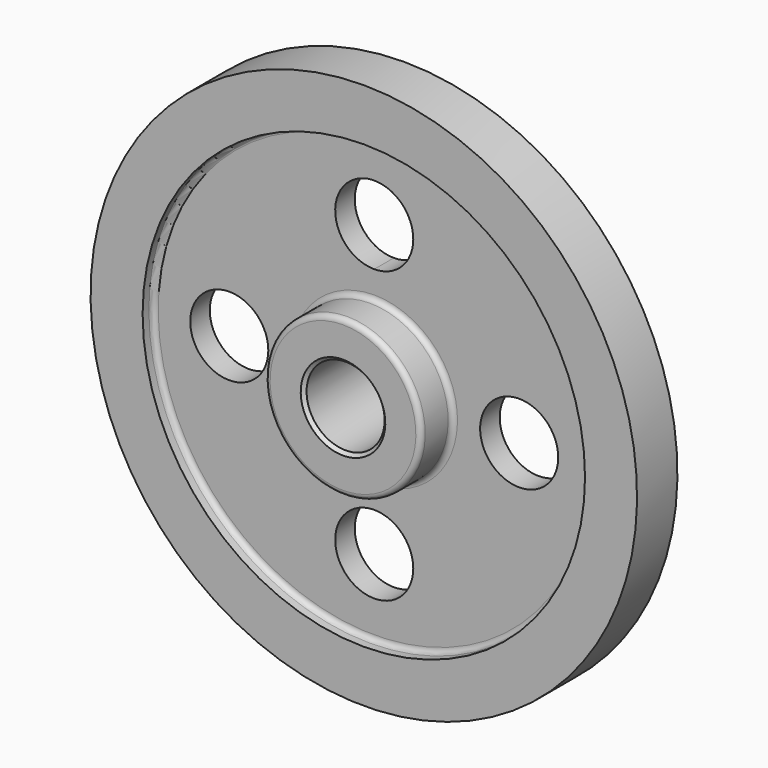
from build123d import *

# Parameters (mm, degrees)
F2_R     = 19.05
F3_DEPTH = 25.4
F4_R     = 2.54
F5_SIZE  = 1.5875


with BuildPart() as f1:
    # F0 (on Right) → F1 (revolve)
    with BuildSketch(Plane.YZ):
        Polygon((-5.962424, 19.05), (0, 19.05), (0, 133.35), (-12.312424, 133.35), (-12.312424, 107.95), (-5.962424, 107.95), (-5.962424, 38.1), (-12.312424, 38.1), (-25.012424, 38.1), (-25.012424, 19.05), align=None)
        Polygon((0, 19.05), (5.962424, 19.05), (25.012424, 19.05), (25.012424, 38.1), (12.312424, 38.1), (5.962424, 38.1), (5.962424, 107.95), (12.312424, 107.95), (12.312424, 133.35), (5.962424, 133.35), (0, 133.35), align=None)
    revolve(axis=Axis((0, 36.981776, 0), (0, 1, 0)))

    # F2 (on face) → F3 (cut)
    with BuildSketch(Plane.XZ.offset(5.962424)):
        with BuildLine():
            ThreePointArc((19.05, 70.739), (-13.470384, 84.209384), (0, 51.689))
            ThreePointArc((0, 51.689), (13.470384, 57.268616), (19.05, 70.739))
        make_face()
        with Locations((70.739, 0)):
            Circle(F2_R)
        with Locations((0, -70.739)):
            Circle(F2_R)
        with Locations((-70.739, 0)):
            Circle(F2_R)
    extrude(amount=-F3_DEPTH, mode=Mode.SUBTRACT)

    # F4
    f4_edges = [f1.edges().sort_by_distance(p)[0] for p in [
        (0, -25.012424, -38.1),
        (0, -5.962424, -38.1),
        (0, -5.962424, -107.95),
        (0, 25.012424, -38.1),
        (0, 5.962424, -38.1),
        (0, 12.312424, -107.95),
    ]]
    fillet(f4_edges, radius=F4_R)

    # F5
    f5_edges = [f1.edges().sort_by_distance(p)[0] for p in [
        (0, -25.012424, -19.05),
        (0, 25.012424, -19.05),
    ]]
    chamfer(f5_edges, length=F5_SIZE)


solid = f1.part
